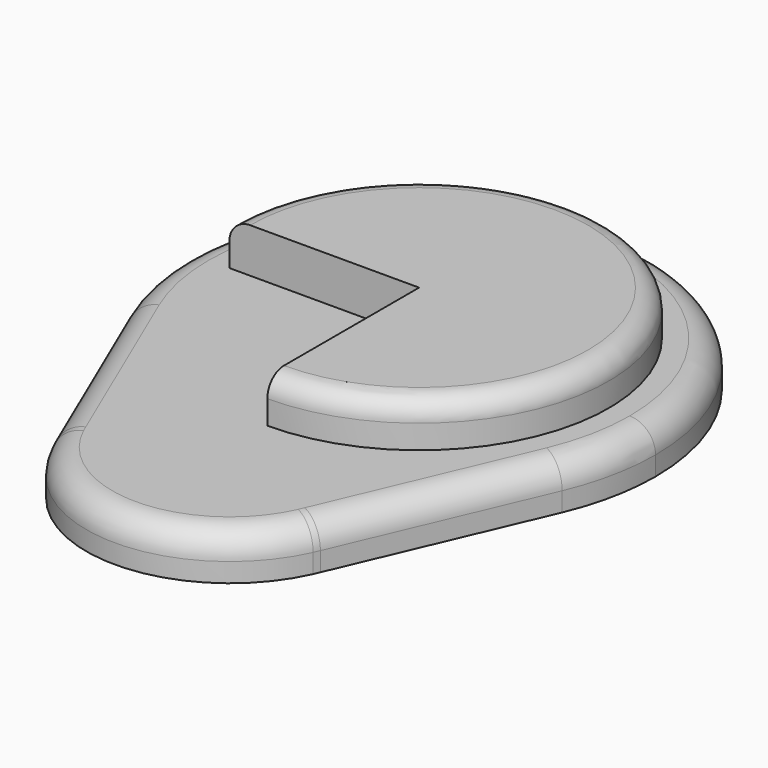
from build123d import *

# Parameters (mm, degrees)
F1_DEPTH = 2.2098
F2_R     = 1.27
F4_DEPTH = 2.1844
F5_R     = 1.016


with BuildPart() as f1:
    # F0 (on Top) → F1 (new body)
    with BuildSketch(Plane.XY):
        with BuildLine():
            ThreePointArc((10.680274663, 22.1913547378), (11.3792147126, 24.4270132399), (11.6153963278, 26.7574433237))
            ThreePointArc((11.6153963278, 26.7574433237), (-2.3304300838, 38.1366580363), (-10.680274663, 22.1913547378))
            ThreePointArc((-10.680274663, 22.1913547378), (-9.0390071452, 19.4626656245), (-6.7184275333, 17.282203837))
            ThreePointArc((-6.7184275333, 17.282203837), (0, 22.1931135695), (6.7184275333, 17.282203837))
            ThreePointArc((6.7184275333, 17.282203837), (9.0390071452, 19.4626656245), (10.680274663, 22.1913547378))
        make_face()
        with BuildLine():
            ThreePointArc((6.7184275333, 17.282203837), (0, 22.1931135695), (-6.7184275333, 17.282203837))
            ThreePointArc((-6.7184275333, 17.282203837), (0, 15.142046996), (6.7184275333, 17.282203837))
        make_face()
        with BuildLine():
            ThreePointArc((6.7184275333, 17.282203837), (0, 15.142046996), (-6.7184275333, 17.282203837))
            ThreePointArc((-6.7184275333, 17.282203837), (-7.0463335637, 14.8837387803), (-6.5436952619, 12.5157202562))
            Line((-6.5436952619, 12.5157202562), (-6.4198818287, 12.2261153899))
            Line((-6.4198818287, 12.2261153899), (6.4198818287, 12.2261153899))
            Line((6.4198818287, 12.2261153899), (6.5436952619, 12.5157202562))
            ThreePointArc((6.5436952619, 12.5157202562), (6.9230618499, 13.8046037456), (7.0510665736, 15.142046996))
            ThreePointArc((7.0510665736, 15.142046996), (6.9674105531, 16.2249735904), (6.7184275333, 17.282203837))
        make_face()
        with BuildLine():
            ThreePointArc((-6.7184275333, 17.282203837), (-9.0390071452, 19.4626656245), (-10.680274663, 22.1913547378))
            Line((-10.680274663, 22.1913547378), (-6.5436952619, 12.5157202562))
            ThreePointArc((-6.5436952619, 12.5157202562), (-7.0463335637, 14.8837387803), (-6.7184275333, 17.282203837))
        make_face()
        with BuildLine():
            Line((6.4198818287, 12.2261153899), (-6.4198818287, 12.2261153899))
            ThreePointArc((-6.4198818287, 12.2261153899), (0, 8.0909804224), (6.4198818287, 12.2261153899))
        make_face()
        with BuildLine():
            Line((6.5436952619, 12.5157202562), (10.680274663, 22.1913547378))
            ThreePointArc((10.680274663, 22.1913547378), (9.0390071452, 19.4626656245), (6.7184275333, 17.282203837))
            ThreePointArc((6.7184275333, 17.282203837), (6.9674105531, 16.2249735904), (7.0510665736, 15.142046996))
            ThreePointArc((7.0510665736, 15.142046996), (6.9230618499, 13.8046037456), (6.5436952619, 12.5157202562))
        make_face()
    extrude(amount=F1_DEPTH)

    # F2
    f2_edges = [f1.edges().sort_by_distance(p)[0] for p in [
        (8.550078, 17.208735, 2.2098),
        (0, 38.37284, 2.2098),
        (-8.550078, 17.208735, 2.2098),
        (0, 8.09098, 2.2098),
    ]]
    fillet(f2_edges, radius=F2_R)

    # F3 (on face) → F4 (join)
    with BuildSketch(Plane.XY.offset(2.2098)):
        with BuildLine():
            Line((0, 26.7574433237), (0, 36.074007986))
            ThreePointArc((0, 36.074007986), (-6.5878060501, 33.3452493738), (-9.3165646623, 26.7574433237))
            Line((-9.3165646623, 26.7574433237), (0, 26.7574433237))
        make_face()
        with BuildLine():
            ThreePointArc((9.3165646623, 26.7574433237), (6.5878060501, 33.3452493738), (0, 36.074007986))
            Line((0, 36.074007986), (0, 26.7574433237))
            Line((0, 26.7574433237), (0, 17.4408786614))
            ThreePointArc((0, 17.4408786614), (6.5878060501, 20.1696372737), (9.3165646623, 26.7574433237))
        make_face()
    extrude(amount=F4_DEPTH)

    # F5
    f5_edges = [f1.edges().sort_by_distance(p)[0] for p in [
        (6.587806, 33.345249, 4.3942),
    ]]
    fillet(f5_edges, radius=F5_R)


solid = f1.part
